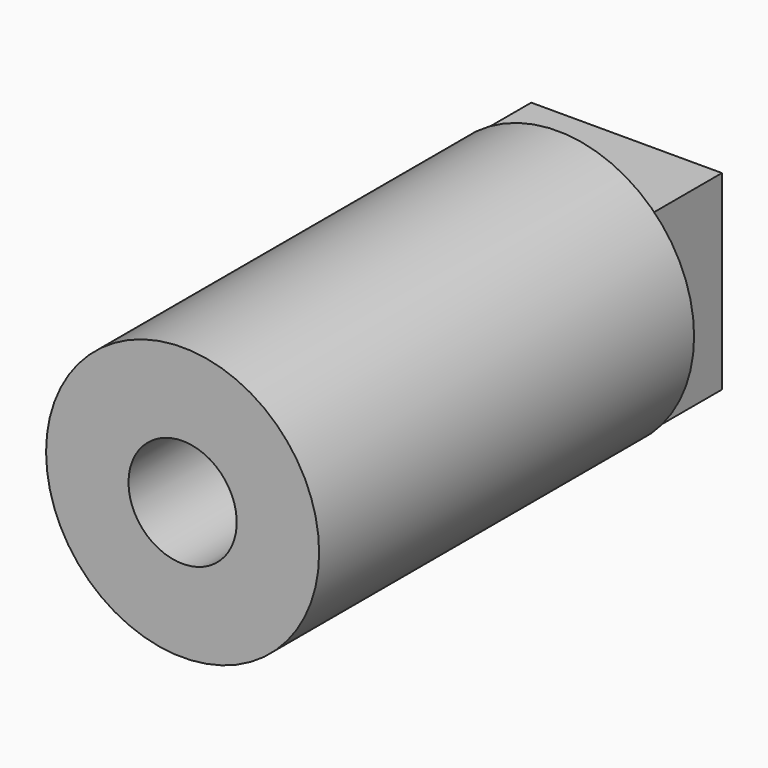
from build123d import *

# Parameters (mm, degrees)
F0_R     = 12.4968
F2_DEPTH = 42.9006
F1_W     = 17.4498
F1_H     = 17.4498
F3_DEPTH = 7.8994
F4_R     = 4.953
F5_DEPTH = 76.2


with BuildPart() as f2:
    # F0 (on Front) → F2 (new body)
    with BuildSketch(Plane.XZ):
        Circle(F0_R)
    extrude(amount=F2_DEPTH)

    # F1 (on Front) → F3 (join)
    with BuildSketch(Plane.XZ):
        Rectangle(F1_W, F1_H)
    extrude(amount=-F3_DEPTH)

    # F4 (on face) → F5 (cut)
    with BuildSketch(Plane(origin=(0, 7.8994, 0), x_dir=(-1, 0, 0), z_dir=(0, 1, 0))):
        Circle(F4_R)
    extrude(amount=-F5_DEPTH, mode=Mode.SUBTRACT)


solid = f2.part
